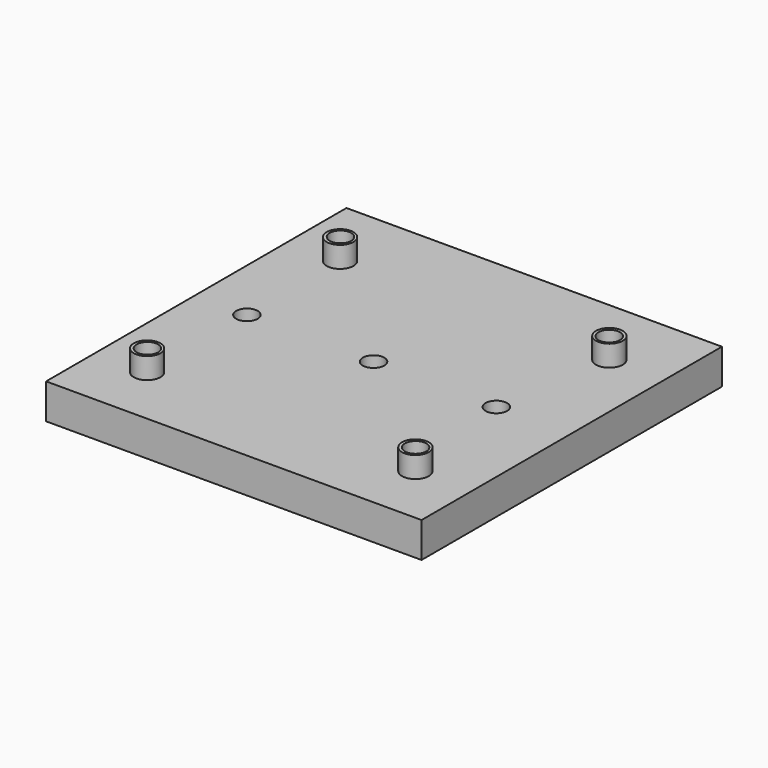
from build123d import *

# Parameters (mm, degrees)
SKETCH171_R      = 2.005
EXTRUDE074_DEPTH = 20
EXTRUDE073_DEPTH = 20
EXTRUDE190_DEPTH = 20
EXTRUDE189_DEPTH = 20
EXTRUDE188_DEPTH = 20
EXTRUDE187_DEPTH = 20
EXTRUDE186_DEPTH = 20
SKETCH015_R      = 2.5
EXTRUDE185_DEPTH = 8
SKETCH172_W      = 70
SKETCH172_H      = 6.56
EXTRUDE184_DEPTH = 70


with BuildPart() as tornillo015:
    # Sketch171 → Extrude074 (new body)
    with BuildSketch(Plane.XY.offset(45.913223)):
        with Locations((-84.962639, 67.504814)):
            Circle(SKETCH171_R)
    extrude(amount=EXTRUDE074_DEPTH)


with BuildPart() as tornillo015_1:
    # Extrude074 placement: moved
    add(tornillo015.part.moved(Location((46.5, -21.8, -20.5))))


with BuildPart() as tornillo014:
    # Sketch171 → Extrude073 (new body)
    with BuildSketch(Plane.XY.offset(45.913223)):
        with Locations((-84.962639, 67.504814)):
            Circle(SKETCH171_R)
    extrude(amount=EXTRUDE073_DEPTH)


with BuildPart() as tornillo014_1:
    # Extrude073 placement: moved
    add(tornillo014.part.moved(Location((23.6, -21.8, -20.6))))


with BuildPart() as tornillo013:
    # Sketch171 → Extrude190 (new body)
    with BuildSketch(Plane.XY.offset(45.913223)):
        with Locations((-84.962639, 67.504814)):
            Circle(SKETCH171_R)
    extrude(amount=EXTRUDE190_DEPTH)


with BuildPart() as tornillo013_1:
    # Extrude190 placement: moved
    add(tornillo013.part.moved(Location((0, -21.8, -20.8))))


with BuildPart() as tornillo012:
    # Sketch171 → Extrude189 (new body)
    with BuildSketch(Plane.XY.offset(45.913223)):
        with Locations((-84.962639, 67.504814)):
            Circle(SKETCH171_R)
    extrude(amount=EXTRUDE189_DEPTH)


with BuildPart() as tornillo012_1:
    # Extrude189 placement: moved
    add(tornillo012.part.moved(Location((0, -45, -17))))


with BuildPart() as tornillo011:
    # Sketch171 → Extrude188 (new body)
    with BuildSketch(Plane.XY.offset(45.913223)):
        with Locations((-84.962639, 67.504814)):
            Circle(SKETCH171_R)
    extrude(amount=EXTRUDE188_DEPTH)


with BuildPart() as tornillo011_1:
    # Extrude188 placement: moved
    add(tornillo011.part.moved(Location((50, -45, -15))))


with BuildPart() as tornillo010:
    # Sketch171 → Extrude187 (new body)
    with BuildSketch(Plane.XY.offset(45.913223)):
        with Locations((-84.962639, 67.504814)):
            Circle(SKETCH171_R)
    extrude(amount=EXTRUDE187_DEPTH)


with BuildPart() as tornillo010_1:
    # Extrude187 placement: moved
    add(tornillo010.part.moved(Location((0, 0, -15))))


with BuildPart() as tornillo009:
    # Sketch171 → Extrude186 (new body)
    with BuildSketch(Plane.XY.offset(45.913223)):
        with Locations((-84.962639, 67.504814)):
            Circle(SKETCH171_R)
    extrude(amount=EXTRUDE186_DEPTH)


with BuildPart() as tornillo009_1:
    # Extrude186 placement: moved
    add(tornillo009.part.moved(Location((50.1, 0, -18))))


with BuildPart() as tornillos052:
    # Sketch015 → Extrude185 (new body)
    with BuildSketch(Plane.XY.offset(41.913223)):
        with Locations((-84.986267, 67.433998)):
            Circle(SKETCH015_R)
        with Locations((-85.013062, 22.499535)):
            Circle(SKETCH015_R)
        with Locations((-35.024185, 22.542374)):
            Circle(SKETCH015_R)
        with Locations((-34.910458, 67.59893)):
            Circle(SKETCH015_R)
    extrude(amount=EXTRUDE185_DEPTH)


with BuildPart() as tornillos052_1:
    # Extrude185 placement: moved
    add(tornillos052.part.moved(Location((0, 0, -4))))


with BuildPart() as obj1:
    # Sketch172 → Extrude184 (new body)
    with BuildSketch(Plane.YZ):
        with Locations((4.567114, 74.199239)):
            Rectangle(SKETCH172_W, SKETCH172_H)
    extrude(amount=EXTRUDE184_DEPTH)


with BuildPart() as obj1_1:
    # Extrude184 placement: moved
    add(obj1.part.moved(Location((-94.7, 41.5, -35.5))))

    # Fusion018: union Tornillos052
    add(tornillos052_1.part)

    # Cut109: cut Tornillo009
    add(tornillo009_1.part, mode=Mode.SUBTRACT)

    # Cut110: cut Tornillo010
    add(tornillo010_1.part, mode=Mode.SUBTRACT)

    # Cut111: cut Tornillo011
    add(tornillo011_1.part, mode=Mode.SUBTRACT)

    # Cut112: cut Tornillo012
    add(tornillo012_1.part, mode=Mode.SUBTRACT)

    # Cut113: cut Tornillo013
    add(tornillo013_1.part, mode=Mode.SUBTRACT)

    # Cut114: cut Tornillo014
    add(tornillo014_1.part, mode=Mode.SUBTRACT)

    # Cut115: cut Tornillo015
    add(tornillo015_1.part, mode=Mode.SUBTRACT)


solid = obj1_1.part
